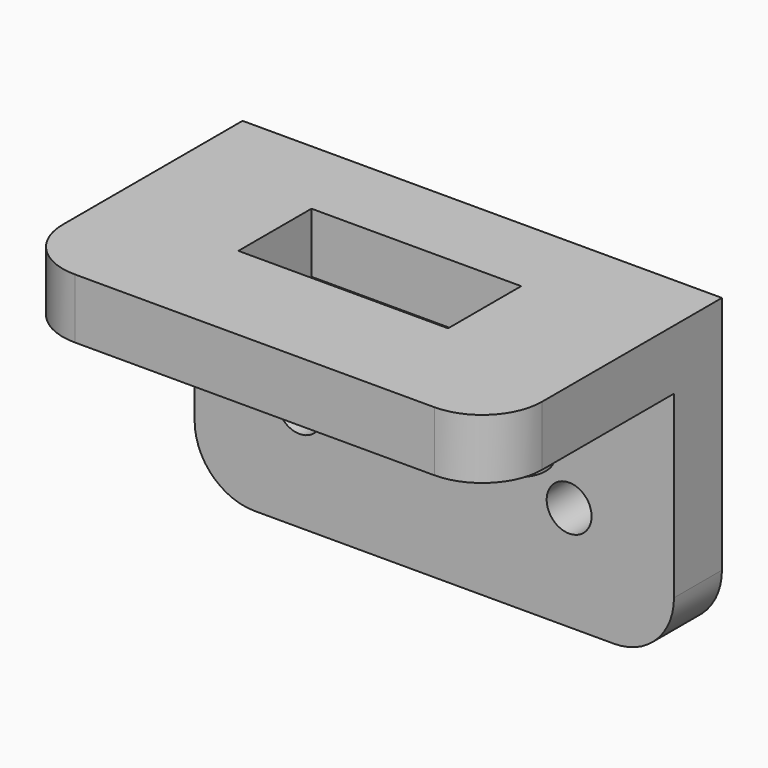
from build123d import *

# Parameters (mm, degrees)
F0_W     = 32
F0_H     = 19
F1_DEPTH = 4
F2_W     = 32
F2_H     = 4
F3_DEPTH = 16
F5_W     = 14
F5_H     = 6.1
F6_DEPTH = 25
F7_R     = 1.85
F8_DEPTH = 2
F9_D     = 3
F10_R    = 4


with BuildPart() as f1:
    # F0 (on Top) → F1 (new body)
    with BuildSketch(Plane.XY):
        Rectangle(F0_W, F0_H)
        Rectangle(F0_W, F0_H)
    extrude(amount=F1_DEPTH)

    # F2 (on face) → F3 (join)
    with BuildSketch(Plane(origin=(0, 0, 0), x_dir=(1, 0, 0), z_dir=(0, 0, -1))):
        with Locations((0, -7.5)):
            Rectangle(F2_W, F2_H)
    extrude(amount=F3_DEPTH)

    # F5 (on face) → F6 (cut)
    with BuildSketch(Plane.XY.offset(4)):
        with Locations((0, 0.95)):
            Rectangle(F5_W, F5_H)
    extrude(amount=-F6_DEPTH, mode=Mode.SUBTRACT)

    # F7 (on face) → F8 (join)
    with BuildSketch(Plane(origin=(0, 0, 0), x_dir=(1, 0, 0), z_dir=(0, 0, -1))):
        with Locations((-12, 2.5)):
            Circle(F7_R)
        with Locations((12, 2.5)):
            Circle(F7_R)
    extrude(amount=F8_DEPTH)

    # F9 (through all)
    with Locations(Plane.XZ.offset(-5.5)):
        with Locations((-9, -9), (9, -9)):
            Hole(F9_D / 2)

    # F10
    f10_edges = [f1.edges().sort_by_distance(p)[0] for p in [
        (16, -9.5, 2),
        (-16, -9.5, 2),
        (-16, 7.5, -16),
        (16, 7.5, -16),
    ]]
    fillet(f10_edges, radius=F10_R)


solid = f1.part
